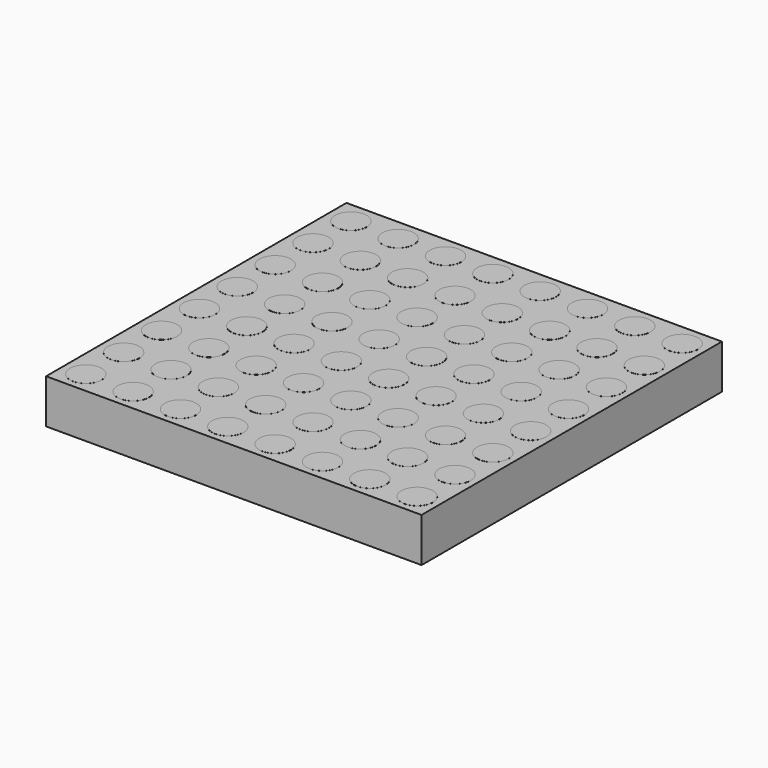
from build123d import *

# Parameters (mm, degrees)
SKETCH_W     = 59.5
SKETCH_H     = 59.5
PAD_DEPTH    = 7
SKETCH001_R  = 2.5
PAD001_DEPTH = 0.01


with BuildPart() as part:
    # Sketch → Pad (new body)
    with BuildSketch(Plane.XY):
        with Locations((29.75, 29.75)):
            Rectangle(SKETCH_W, SKETCH_H)
    extrude(amount=PAD_DEPTH)

    # Sketch001 (on Face6 of Pad) → Pad001 (join)
    with BuildSketch(Plane.XY.offset(7)):
        with Locations((3.5, 3.5)):
            Circle(SKETCH001_R)
        with Locations((11, 3.5)):
            Circle(SKETCH001_R)
        with Locations((18.5, 3.5)):
            Circle(SKETCH001_R)
        with Locations((26, 3.5)):
            Circle(SKETCH001_R)
        with Locations((33.5, 3.5)):
            Circle(SKETCH001_R)
        with Locations((41, 3.5)):
            Circle(SKETCH001_R)
        with Locations((48.5, 3.5)):
            Circle(SKETCH001_R)
        with Locations((56, 3.5)):
            Circle(SKETCH001_R)
        with Locations((3.5, 11)):
            Circle(SKETCH001_R)
        with Locations((11, 11)):
            Circle(SKETCH001_R)
        with Locations((18.5, 11)):
            Circle(SKETCH001_R)
        with Locations((26, 11)):
            Circle(SKETCH001_R)
        with Locations((33.5, 11)):
            Circle(SKETCH001_R)
        with Locations((41, 11)):
            Circle(SKETCH001_R)
        with Locations((48.5, 11)):
            Circle(SKETCH001_R)
        with Locations((56, 11)):
            Circle(SKETCH001_R)
        with Locations((3.5, 18.5)):
            Circle(SKETCH001_R)
        with Locations((11, 18.5)):
            Circle(SKETCH001_R)
        with Locations((18.5, 18.5)):
            Circle(SKETCH001_R)
        with Locations((26, 18.5)):
            Circle(SKETCH001_R)
        with Locations((33.5, 18.5)):
            Circle(SKETCH001_R)
        with Locations((41, 18.5)):
            Circle(SKETCH001_R)
        with Locations((48.5, 18.5)):
            Circle(SKETCH001_R)
        with Locations((56, 18.5)):
            Circle(SKETCH001_R)
        with Locations((3.5, 26)):
            Circle(SKETCH001_R)
        with Locations((11, 26)):
            Circle(SKETCH001_R)
        with Locations((18.5, 26)):
            Circle(SKETCH001_R)
        with Locations((26, 26)):
            Circle(SKETCH001_R)
        with Locations((33.5, 26)):
            Circle(SKETCH001_R)
        with Locations((41, 26)):
            Circle(SKETCH001_R)
        with Locations((48.5, 26)):
            Circle(SKETCH001_R)
        with Locations((56, 26)):
            Circle(SKETCH001_R)
        with Locations((3.5, 33.5)):
            Circle(SKETCH001_R)
        with Locations((11, 33.5)):
            Circle(SKETCH001_R)
        with Locations((18.5, 33.5)):
            Circle(SKETCH001_R)
        with Locations((26, 33.5)):
            Circle(SKETCH001_R)
        with Locations((33.5, 33.5)):
            Circle(SKETCH001_R)
        with Locations((41, 33.5)):
            Circle(SKETCH001_R)
        with Locations((48.5, 33.5)):
            Circle(SKETCH001_R)
        with Locations((56, 33.5)):
            Circle(SKETCH001_R)
        with Locations((3.5, 41)):
            Circle(SKETCH001_R)
        with Locations((11, 41)):
            Circle(SKETCH001_R)
        with Locations((18.5, 41)):
            Circle(SKETCH001_R)
        with Locations((26, 41)):
            Circle(SKETCH001_R)
        with Locations((33.5, 41)):
            Circle(SKETCH001_R)
        with Locations((41, 41)):
            Circle(SKETCH001_R)
        with Locations((48.5, 41)):
            Circle(SKETCH001_R)
        with Locations((56, 41)):
            Circle(SKETCH001_R)
        with Locations((3.5, 48.5)):
            Circle(SKETCH001_R)
        with Locations((11, 48.5)):
            Circle(SKETCH001_R)
        with Locations((18.5, 48.5)):
            Circle(SKETCH001_R)
        with Locations((26, 48.5)):
            Circle(SKETCH001_R)
        with Locations((33.5, 48.5)):
            Circle(SKETCH001_R)
        with Locations((41, 48.5)):
            Circle(SKETCH001_R)
        with Locations((48.5, 48.5)):
            Circle(SKETCH001_R)
        with Locations((56, 48.5)):
            Circle(SKETCH001_R)
        with Locations((3.5, 56)):
            Circle(SKETCH001_R)
        with Locations((11, 56)):
            Circle(SKETCH001_R)
        with Locations((18.5, 56)):
            Circle(SKETCH001_R)
        with Locations((26, 56)):
            Circle(SKETCH001_R)
        with Locations((33.5, 56)):
            Circle(SKETCH001_R)
        with Locations((41, 56)):
            Circle(SKETCH001_R)
        with Locations((48.5, 56)):
            Circle(SKETCH001_R)
        with Locations((56, 56)):
            Circle(SKETCH001_R)
    extrude(amount=PAD001_DEPTH)


solid = part.part
